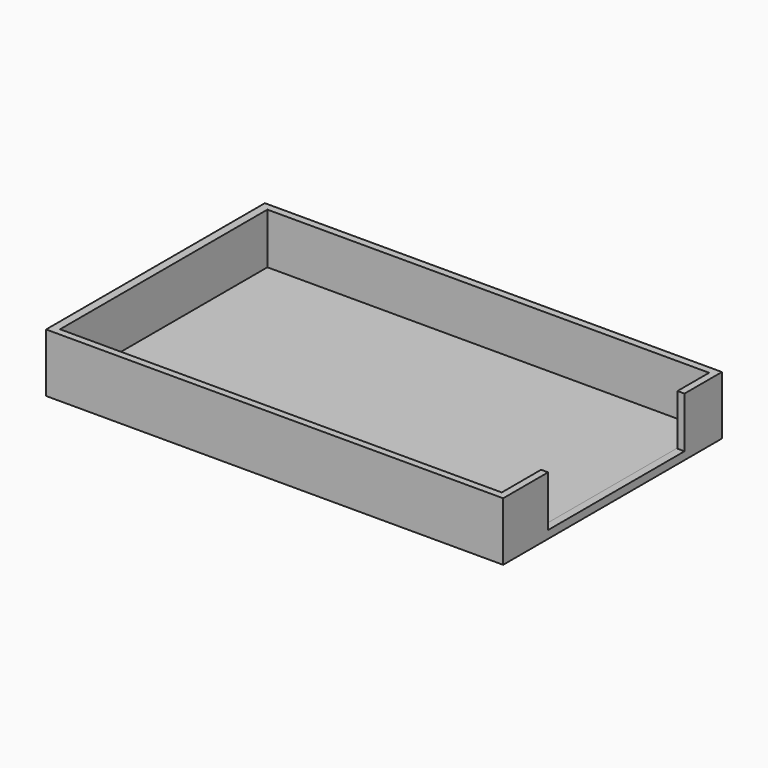
from build123d import *

# Parameters (mm, degrees)
SKETCH_W        = 117
SKETCH_H        = 70
PAD_DEPTH       = 15
SKETCH001_W     = 113.068136
SKETCH001_H     = 66.343485
POCKET_DEPTH    = 13
SKETCH002_W     = 43.654532
SKETCH002_H     = 15.131113
POCKET001_DEPTH = 2


with BuildPart() as part:
    # Sketch → Pad (new body)
    with BuildSketch(Plane.XY):
        with Locations((-58.5, -35)):
            Rectangle(SKETCH_W, SKETCH_H)
    extrude(amount=PAD_DEPTH)

    # Sketch001 (on Face6 of Pad) → Pocket (cut)
    with BuildSketch(Plane.XY.offset(15)):
        with Locations((-58.329235, -35.028484)):
            Rectangle(SKETCH001_W, SKETCH001_H)
    extrude(amount=-POCKET_DEPTH, mode=Mode.SUBTRACT)

    # Sketch002 (on Face2 of Pocket) → Pocket001 (cut)
    with BuildSketch(Plane.YZ):
        with Locations((-33.794312, 9.565556)):
            Rectangle(SKETCH002_W, SKETCH002_H)
    extrude(amount=-POCKET001_DEPTH, mode=Mode.SUBTRACT)


solid = part.part
